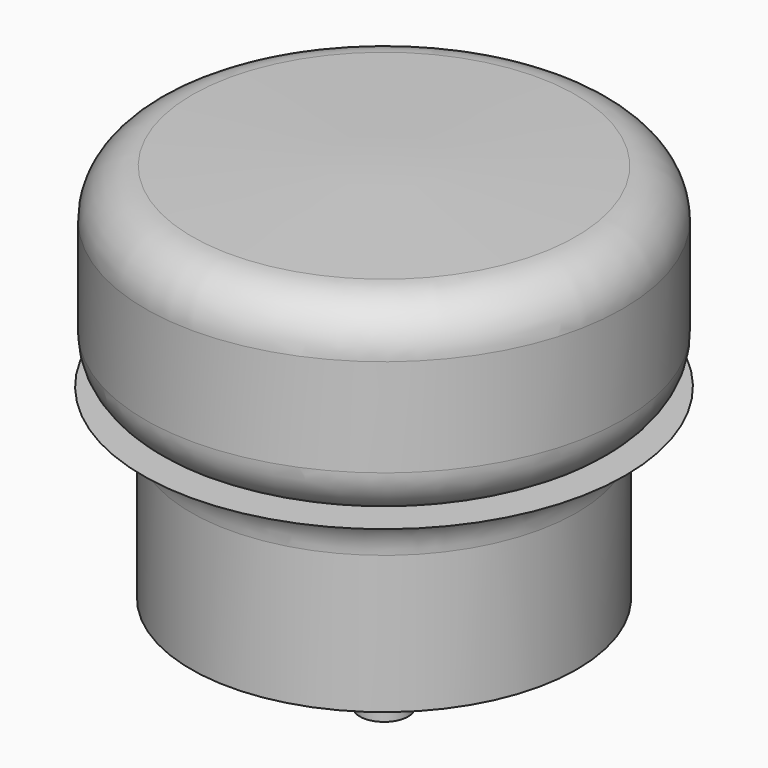
from build123d import *

# Parameters (mm, degrees)
F2_R     = 1.5875
F3_DEPTH = 6.35


with BuildPart() as f1:
    # F0 (on Front) → F1 (revolve)
    with BuildSketch(Plane.XZ):
        with BuildLine():
            Line((-12.7, 15.344166), (0, 15.344166))
            Line((0, 15.344166), (0, 40.744166))
            Line((0, 40.744166), (-12.632242, 40.385562))
            ThreePointArc((-12.632242, 40.385562), (-14.818842, 39.424822), (-15.717147, 37.211841))
            Line((-15.717147, 37.211841), (-15.717147, 30.772988))
            ThreePointArc((-15.717147, 30.772988), (-14.787211, 28.527924), (-12.542147, 27.597988))
            Line((-12.542147, 27.597988), (-15.875, 27.597988))
            ThreePointArc((-15.875, 27.597988), (-13.629936, 26.668052), (-12.7, 24.422988))
            Line((-12.7, 24.422988), (-12.7, 15.344166))
        make_face()
    revolve(axis=Axis((0, 0, 28.044166), (0, 0, -1)))

    # F2 (on face) → F3 (join)
    with BuildSketch(Plane(origin=(0, 0, 15.344166), x_dir=(1, 0, 0), z_dir=(0, 0, -1))):
        Circle(F2_R)
    extrude(amount=F3_DEPTH)


solid = f1.part
